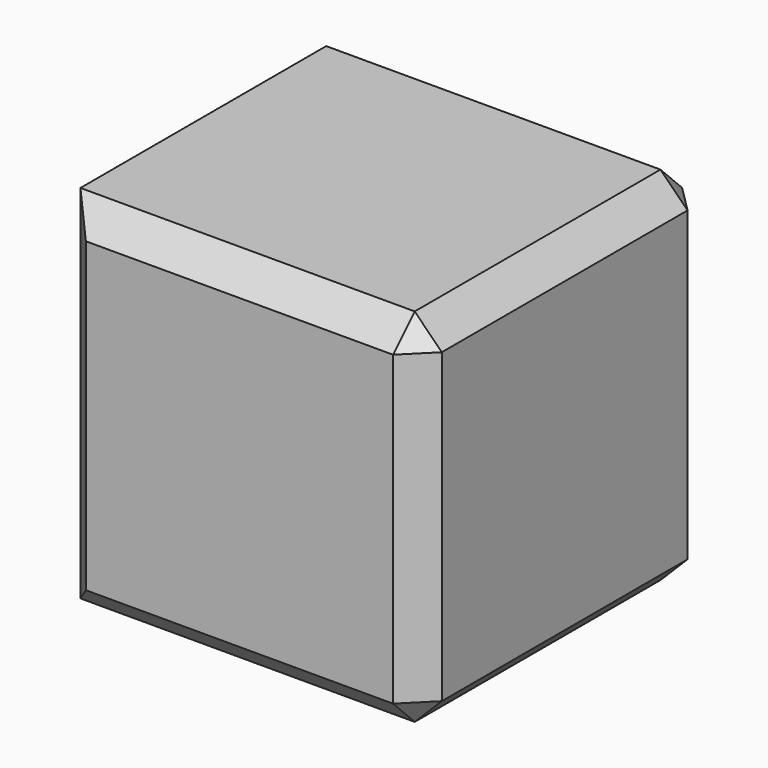
from build123d import *

# Parameters (mm, degrees)
F0_W     = 10
F0_H     = 10
F1_DEPTH = 10
F2_SIZE  = 0.75


with BuildPart() as f1:
    # F0 (on Front) → F1 (new body)
    with BuildSketch(Plane.XZ):
        Rectangle(F0_W, F0_H)
    extrude(amount=F1_DEPTH)

    # F2
    f2_edges = [f1.edges().sort_by_distance(p)[0] for p in [
        (0, 0, 5),
        (-5, 0, 0),
        (0, 0, -5),
        (5, 0, 0),
        (5, -5, -5),
        (5, -5, 5),
        (5, -10, 0),
        (0, -10, -5),
        (0, -10, 5),
        (-5, -10, 0),
    ]]
    chamfer(f2_edges, length=F2_SIZE)


solid = f1.part
